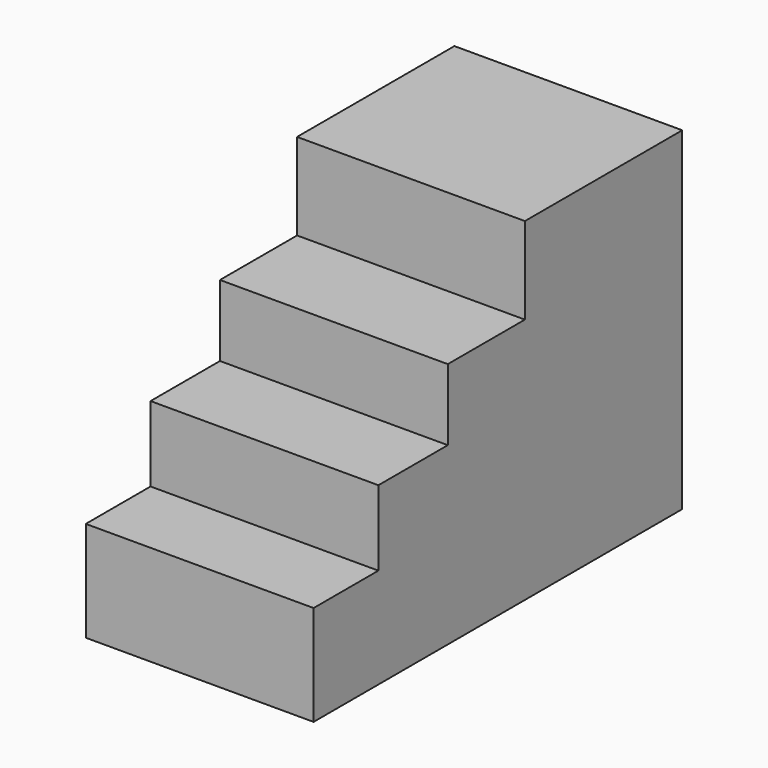
from build123d import *

# Parameters (mm, degrees)
F0_W     = 18.416568
F0_H     = 22.800551
F1_DEPTH = 51.816


with BuildPart() as f1:
    # F0 (on Right) → F1 (new body)
    with BuildSketch(Plane.YZ):
        Polygon((42.630378, -34.009408), (42.630378, 41.846275), (-2.095759, 41.846275), (-2.095759, 22.115029), (-2.095759, -34.009408), align=None)
        Polygon((-2.095759, -34.009408), (-2.095759, 22.115029), (-24.020061, 22.115029), (-24.020061, 5.891558), (-24.020061, -34.009408), align=None)
        Polygon((-43.752097, -34.009408), (-24.020061, -34.009408), (-24.020061, 5.891558), (-43.752097, 5.891558), (-43.752097, -11.208857), align=None)
        with Locations((-52.960381, -22.609133)):
            Rectangle(F0_W, F0_H)
    extrude(amount=F1_DEPTH)


solid = f1.part
